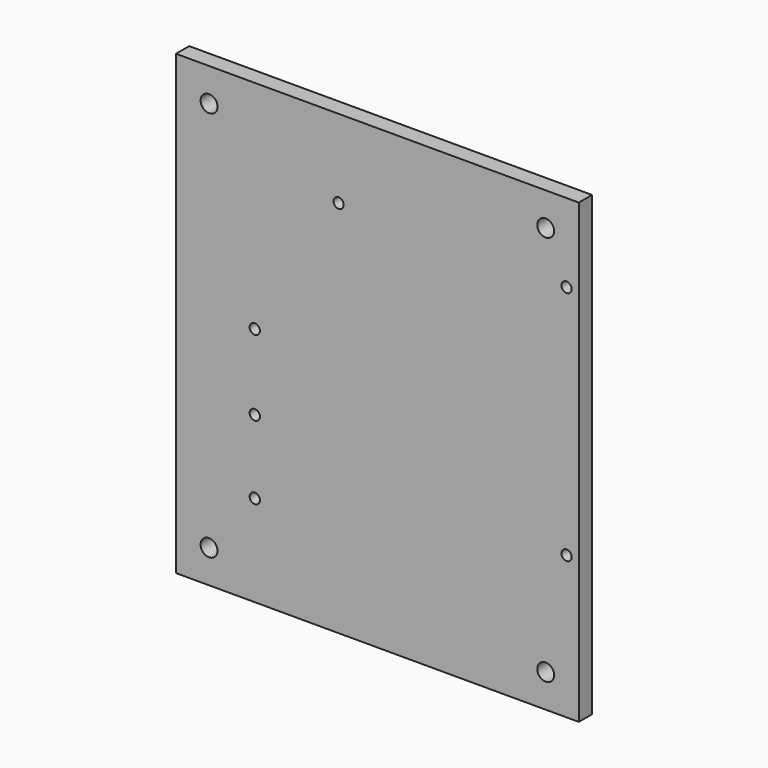
from build123d import *

# Parameters (mm, degrees)
F0_W     = 121.6
F0_H     = 138
F0_R     = 2.55
F0_R_2   = 1.55
F1_DEPTH = 5


with BuildPart() as f1:
    # F0 (on Front) → F1 (new body)
    with BuildSketch(Plane.XZ):
        Rectangle(F0_W, F0_H)
        with Locations((-50.8, -59)):
            Circle(F0_R, mode=Mode.SUBTRACT)
        with Locations((-37, -41.4)):
            Circle(F0_R_2, mode=Mode.SUBTRACT)
        with Locations((-37, -19.2)):
            Circle(F0_R_2, mode=Mode.SUBTRACT)
        with Locations((50.8, -59)):
            Circle(F0_R, mode=Mode.SUBTRACT)
        with Locations((57.1, -25.9)):
            Circle(F0_R_2, mode=Mode.SUBTRACT)
        with Locations((-37, 3.6)):
            Circle(F0_R_2, mode=Mode.SUBTRACT)
        with Locations((-50.8, 59)):
            Circle(F0_R, mode=Mode.SUBTRACT)
        with Locations((-11.7, 45.3)):
            Circle(F0_R_2, mode=Mode.SUBTRACT)
        with Locations((57.1, 45.3)):
            Circle(F0_R_2, mode=Mode.SUBTRACT)
        with Locations((50.8, 59)):
            Circle(F0_R, mode=Mode.SUBTRACT)
    extrude(amount=F1_DEPTH)


solid = f1.part
